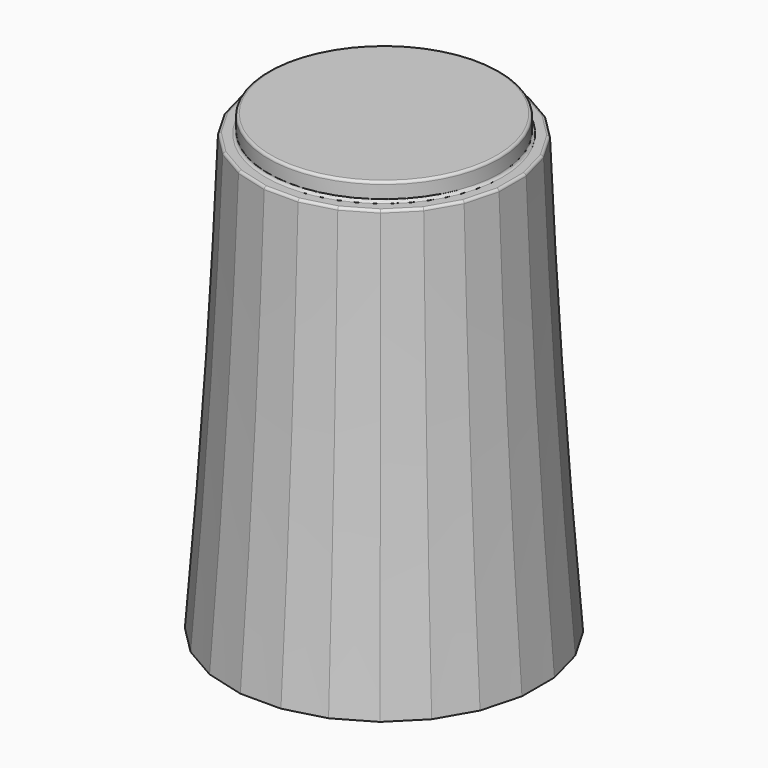
from build123d import *

# Parameters (mm, degrees)
SKETCH003_R     = 4.5
PAD_DEPTH       = 0.7
SKETCH005_R     = 5
POCKET_DEPTH    = 1
SKETCH006_R     = 4.65
POCKET001_DEPTH = 1
POCKET002_DEPTH = 8
CHAMFER_SIZE    = 1.4
CHAMFER001_SIZE = 0.3
FILLET_R        = 0.1


with BuildPart() as part:
    # Sketch → AdditiveLoft section 0
    with BuildSketch(Plane.XY):
        Polygon((-0.789915, 6), (-2.315914, 5.59111), (-3.684086, 4.801195), (-4.801195, 3.684086), (-5.59111, 2.315914), (-6, 0.789915), (-6, -0.789915), (-5.59111, -2.315914), (-4.801195, -3.684086), (-3.684086, -4.801195), (-2.315914, -5.59111), (-0.789915, -6), (0.789915, -6), (2.315914, -5.59111), (3.684086, -4.801195), (4.801195, -3.684086), (5.59111, -2.315914), (6, -0.789915), (6, 0.789915), (5.59111, 2.315914), (4.801195, 3.684086), (3.684086, 4.801195), (2.315914, 5.59111), (0.789915, 6), align=None)
    # Sketch001 → AdditiveLoft section 1
    with BuildSketch(Plane.XY.offset(7)):
        Polygon((-0.724089, 5.5), (-2.122921, 5.125184), (-3.377079, 4.401095), (-4.401095, 3.377079), (-5.125184, 2.122921), (-5.5, 0.724089), (-5.5, -0.724089), (-5.125184, -2.122921), (-4.401095, -3.377079), (-3.377079, -4.401095), (-2.122921, -5.125184), (-0.724089, -5.5), (0.724089, -5.5), (2.122921, -5.125184), (3.377079, -4.401095), (4.401095, -3.377079), (5.125184, -2.122921), (5.5, -0.724089), (5.5, 0.724089), (5.125184, 2.122921), (4.401095, 3.377079), (3.377079, 4.401095), (2.122921, 5.125184), (0.724089, 5.5), align=None)
    # Sketch002 → AdditiveLoft section 2
    with BuildSketch(Plane.XY.offset(17)):
        Polygon((-4.659258, 1.929928), (-5, 0.658262), (-5, -0.658262), (-4.659258, -1.929928), (-4.000996, -3.070072), (-3.070072, -4.000996), (-1.929928, -4.659258), (-0.658262, -5), (0.658262, -5), (1.929928, -4.659258), (3.070072, -4.000996), (4.000996, -3.070072), (4.659258, -1.929928), (5, -0.658262), (5, 0.658262), (4.659258, 1.929928), (4.000996, 3.070072), (3.070072, 4.000996), (1.929928, 4.659258), (0.658262, 5), (-0.658262, 5), (-1.929928, 4.659258), (-3.070072, 4.000996), (-4.000996, 3.070072), align=None)
    loft()

    # Sketch003 (on Face3 of AdditiveLoft) → Pad (new body)
    with BuildSketch(Plane.XY.offset(17)):
        Circle(SKETCH003_R)
    extrude(amount=PAD_DEPTH)

    # Sketch005 (on Face1 of Pad) → Pocket (cut)
    with BuildSketch(Plane(origin=(0, 0, 0), x_dir=(1, 0, 0), z_dir=(0, 0, -1))):
        Circle(SKETCH005_R)
    extrude(amount=-POCKET_DEPTH, mode=Mode.SUBTRACT)

    # Sketch006 (on Face28 of Pocket) → Pocket001 (cut)
    with BuildSketch(Plane(origin=(0, 0, 1), x_dir=(1, 0, 0), z_dir=(0, 0, -1))):
        Circle(SKETCH006_R)
    extrude(amount=-POCKET001_DEPTH, mode=Mode.SUBTRACT)

    # Sketch007 (on Face32 of Pocket001) → Pocket002 (cut)
    with BuildSketch(Plane(origin=(0, 0, 2), x_dir=(1, 0, 0), z_dir=(0, 0, -1))):
        with BuildLine():
            ThreePointArc((-1.741757, 2.442598), (0, -3), (1.741757, 2.442598))
            Line((-1.741757, 2.442598), (1.741757, 2.442598))
        make_face()
    extrude(amount=-POCKET002_DEPTH, mode=Mode.SUBTRACT)

    # Chamfer
    chamfer_edges = [part.edges().sort_by_distance(p)[0] for p in [
        (0, 3, 2),
        (0, -2.442598, 2),
    ]]
    chamfer(chamfer_edges, length=CHAMFER_SIZE)

    # Chamfer001
    chamfer001_edges = [part.edges().sort_by_distance(p)[0] for p in [
        (-4.65, 0, 1),
    ]]
    chamfer(chamfer001_edges, length=CHAMFER001_SIZE)

    # Fillet
    fillet_edges = [part.edges().sort_by_distance(p)[0] for p in [
        (-4.5, 0, 17.7),
        (-4.829629, 1.294095, 17),
        (-4.330127, 2.5, 17),
        (-5, 0, 17),
        (-3.535534, 3.535534, 17),
        (-4.829629, -1.294095, 17),
        (-2.5, 4.330127, 17),
        (-4.330127, -2.5, 17),
        (-1.294095, 4.829629, 17),
        (-3.535534, -3.535534, 17),
        (0, 5, 17),
        (-2.5, -4.330127, 17),
        (1.294095, 4.829629, 17),
        (-1.294095, -4.829629, 17),
        (2.5, 4.330127, 17),
        (0, -5, 17),
        (3.535534, 3.535534, 17),
        (1.294095, -4.829629, 17),
        (4.330127, 2.5, 17),
        (2.5, -4.330127, 17),
        (4.829629, 1.294095, 17),
        (3.535534, -3.535534, 17),
        (5, 0, 17),
        (4.330127, -2.5, 17),
        (4.829629, -1.294095, 17),
        (-4.5, 0, 17),
    ]]
    fillet(fillet_edges, radius=FILLET_R)


solid = part.part
